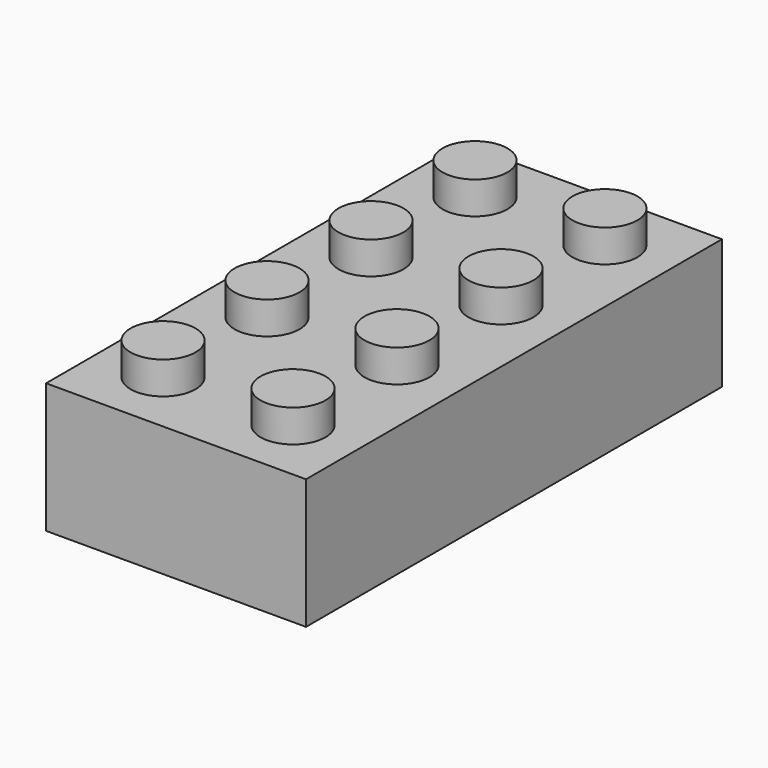
from build123d import *

# Parameters (mm, degrees)
F0_R     = 6.35
F1_DEPTH = 25.4
F2_DEPTH = 31.75


with BuildPart() as f1:
    # F0 (on Top) → F1 (new body)
    with BuildSketch(Plane.XY):
        Polygon((-8.697776, 47.491738), (-21.397776, 47.491738), (-21.397776, 34.791738), (-21.397776, 9.391738), (-21.397776, -16.008262), (-21.397776, -41.408262), (-21.397776, -54.108262), (29.402224, -54.108262), (29.402224, 47.491738), (16.702224, 47.491738), align=None)
        with Locations((-8.697776, -41.408262)):
            Circle(F0_R, mode=Mode.SUBTRACT)
        with Locations((-8.697776, -16.008262)):
            Circle(F0_R, mode=Mode.SUBTRACT)
        with Locations((16.702224, -41.408262)):
            Circle(F0_R, mode=Mode.SUBTRACT)
        with Locations((16.702224, -16.008262)):
            Circle(F0_R, mode=Mode.SUBTRACT)
        with Locations((-8.697776, 9.391738)):
            Circle(F0_R, mode=Mode.SUBTRACT)
        with Locations((-8.697776, 34.791738)):
            Circle(F0_R, mode=Mode.SUBTRACT)
        with Locations((16.702224, 9.391738)):
            Circle(F0_R, mode=Mode.SUBTRACT)
        with Locations((16.702224, 34.791738)):
            Circle(F0_R, mode=Mode.SUBTRACT)
    extrude(amount=F1_DEPTH)

    # F0 (on Top) → F2 (join)
    with BuildSketch(Plane.XY):
        with Locations((-8.697776, 34.791738)):
            Circle(F0_R)
        with Locations((16.702224, 34.791738)):
            Circle(F0_R)
        with Locations((16.702224, 9.391738)):
            Circle(F0_R)
        with Locations((-8.697776, 9.391738)):
            Circle(F0_R)
        with Locations((-8.697776, -16.008262)):
            Circle(F0_R)
        with Locations((16.702224, -16.008262)):
            Circle(F0_R)
        with Locations((-8.697776, -41.408262)):
            Circle(F0_R)
        with Locations((16.702224, -41.408262)):
            Circle(F0_R)
    extrude(amount=F2_DEPTH)


solid = f1.part
